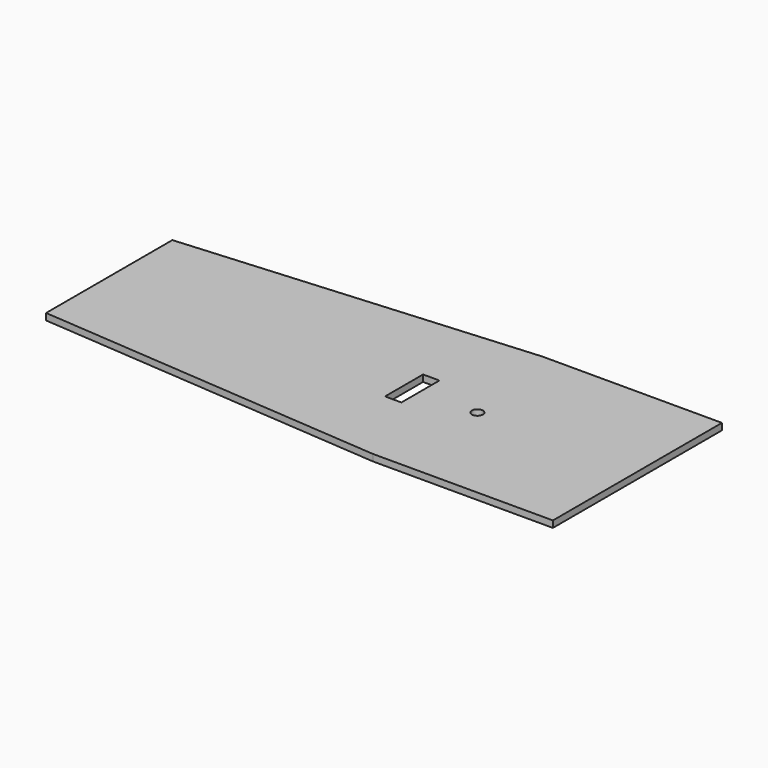
from build123d import *

# Parameters (mm, degrees)
F0_W     = 7.874
F0_H     = 22.86
F0_R     = 2.65
F1_DEPTH = 3.175


with BuildPart() as f1:
    # F0 (on Top) → F1 (new body)
    with BuildSketch(Plane.XY):
        Polygon((132.736871, 50.8), (46.281388, 50.8), (-121.263129, 37.949889), (-121.263129, -37.949889), (46.281388, -50.8), (132.736871, -50.8), align=None)
        with Locations((24.45248, 0)):
            Rectangle(F0_W, F0_H, mode=Mode.SUBTRACT)
        with Locations((55.783071, 0)):
            Circle(F0_R, mode=Mode.SUBTRACT)
    extrude(amount=F1_DEPTH)


solid = f1.part
